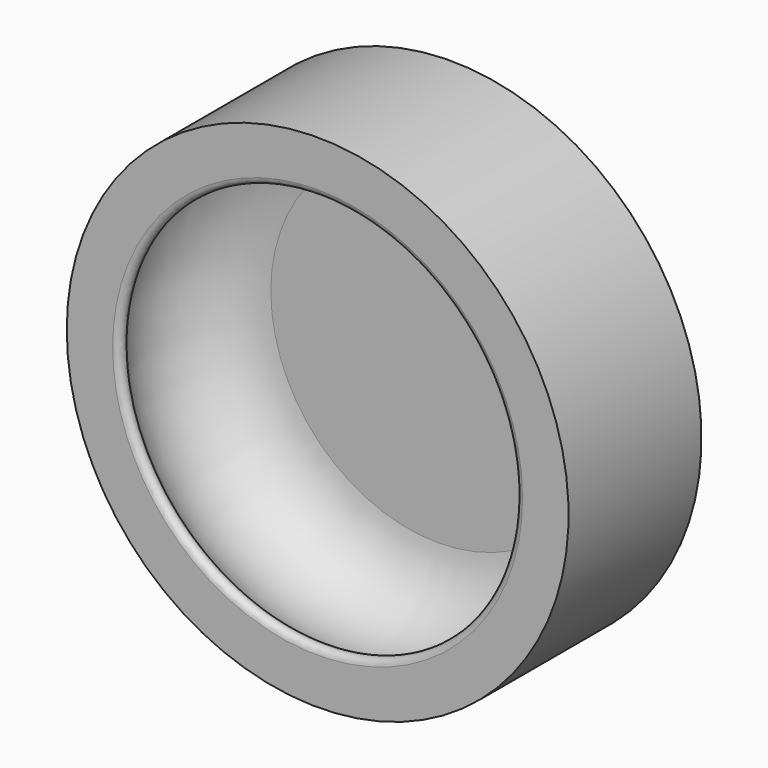
from build123d import *

# Parameters (mm, degrees)
F2_R     = 3.175
F3_DEPTH = 3.175
F4_R     = 0.0635
F5_R     = 0.254
F7_DEPTH = 0.0635


with BuildPart() as f1:
    # F0 (on Top) → F1 (revolve)
    with BuildSketch(Plane.XY):
        with BuildLine():
            Line((-27.9113905668, -13.4055339169), (-37.4363905668, -13.4055339169))
            Line((-37.4363905668, -13.4055339169), (-37.4363905668, -19.7555339169))
            Line((-37.4363905668, -19.7555339169), (-34.2613905668, -19.7555339169))
            ThreePointArc((-34.2613905668, -19.7555339169), (-36.8331405668, -16.8980339169), (-34.2613905668, -14.0405339169))
            Line((-34.2613905668, -14.0405339169), (-27.9113905668, -14.0405339169))
            Line((-27.9113905668, -14.0405339169), (-27.9113905668, -13.4055339169))
        make_face()
    revolve(axis=Axis((-27.9113905668, -16.5805339169, 0), (0, -1, 0)))

    # F2 (on face) → F3 (join)
    with BuildSketch(Plane(origin=(0, -13.4055339169, 0), x_dir=(-1, 0, 0), z_dir=(0, 1, 0))):
        with Locations((27.9113905668, 0)):
            Circle(F2_R)
        Polygon((30.1152475484, -1.2627804262), (28.5768321807, -2.451282819), (26.6486101406, -2.2038569815), (25.4601077479, -0.6654416139), (25.7075335853, 1.2627804262), (27.245948953, 2.451282819), (29.1741709931, 2.2038569815), (30.3626733858, 0.6654416139), align=None, mode=Mode.SUBTRACT)
    extrude(amount=F3_DEPTH)

    # F4
    f4_edges = [f1.edges().sort_by_distance(p)[0] for p in [
        (-18.386391, -13.405534, 0),
    ]]
    fillet(f4_edges, radius=F4_R)

    # F5
    f5_edges = [f1.edges().sort_by_distance(p)[0] for p in [
        (-21.561391, -19.755534, 0),
    ]]
    fillet(f5_edges, radius=F5_R)

    # F6 (on face) → F7 (join)
    with BuildSketch(Plane(origin=(0, -13.4055339169, 0), x_dir=(-1, 0, 0), z_dir=(0, 1, 0))):
        Polygon((30.2102901042, 4.4913082384), (33.9498221874, 4.4913082384), (33.9498221874, 5.7183979079), (30.2102901042, 5.7183979079), (30.2102901042, 5.5610182325), (30.7377161321, 5.2586852067), (30.2102901042, 4.9519913076), align=None)
        Polygon((30.2102901042, 5.5610182325), (30.2102901042, 4.9519913076), (30.7377161321, 5.2586852067), align=None)
        Polygon((28.9700869471, 4.2308233678), (30.2102901042, 4.9519913076), (30.2102901042, 5.5610182325), (28.9637470755, 6.275566066), align=None)
    extrude(amount=F7_DEPTH)


solid = f1.part
